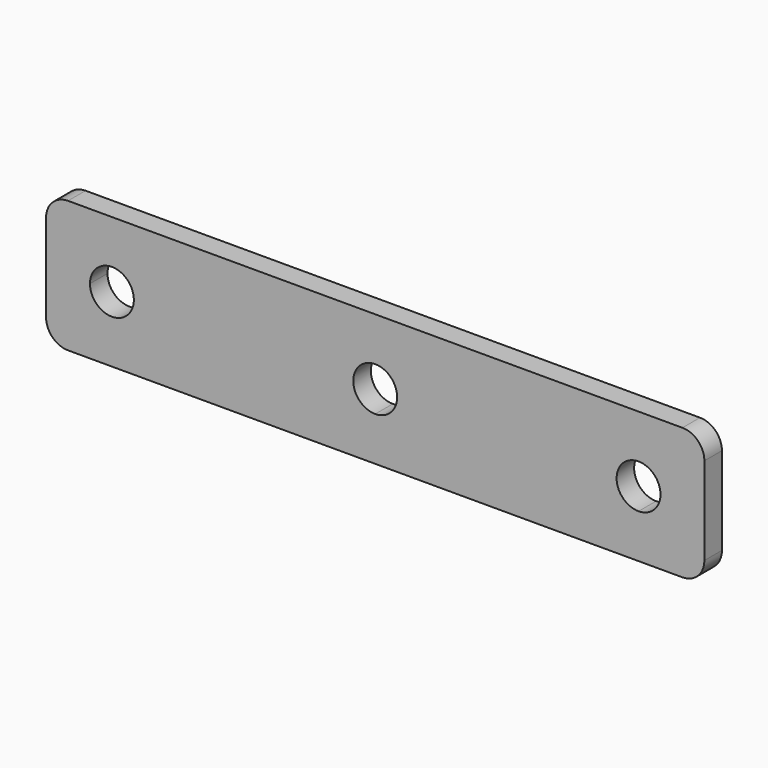
from build123d import *

# Parameters (mm, degrees)
F1_DEPTH = 3.175
F2_R     = 3.175


with BuildPart() as f1:
    # F0 (on Front) → F1 (new body)
    with BuildSketch(Plane.XZ):
        with BuildLine():
            Line((41.079769, -3.502041), (31.554769, -3.502041))
            Line((31.554769, -3.502041), (31.554769, -13.027041))
            Line((31.554769, -13.027041), (37.904769, -13.027041))
            ThreePointArc((37.904769, -13.027041), (38.834705, -10.781977), (41.079769, -9.852041))
            Line((41.079769, -9.852041), (41.079769, -3.502041))
        make_face()
        with BuildLine():
            Line((79.179769, -3.502041), (41.079769, -3.502041))
            Line((41.079769, -3.502041), (41.079769, -9.852041))
            ThreePointArc((41.079769, -9.852041), (43.324833, -10.781977), (44.254769, -13.027041))
            ThreePointArc((44.254769, -13.027041), (41.079769, -16.202041), (37.904769, -13.027041))
            Line((37.904769, -13.027041), (31.554769, -13.027041))
            Line((31.554769, -13.027041), (31.554769, -22.552041))
            Line((31.554769, -22.552041), (79.179769, -22.552041))
            Line((79.179769, -22.552041), (79.179769, -16.202041))
            ThreePointArc((79.179769, -16.202041), (76.004769, -13.027041), (79.179769, -9.852041))
            Line((79.179769, -9.852041), (79.179769, -3.502041))
        make_face()
        with BuildLine():
            Line((126.804769, -3.502041), (79.179769, -3.502041))
            Line((79.179769, -3.502041), (79.179769, -9.852041))
            ThreePointArc((79.179769, -9.852041), (81.424833, -10.781977), (82.354769, -13.027041))
            ThreePointArc((82.354769, -13.027041), (81.424833, -15.272105), (79.179769, -16.202041))
            Line((79.179769, -16.202041), (79.179769, -22.552041))
            Line((79.179769, -22.552041), (117.279769, -22.552041))
            Line((117.279769, -22.552041), (117.279769, -16.202041))
            ThreePointArc((117.279769, -16.202041), (115.034705, -10.781977), (120.454769, -13.027041))
            Line((120.454769, -13.027041), (126.804769, -13.027041))
            Line((126.804769, -13.027041), (126.804769, -3.502041))
        make_face()
        with BuildLine():
            Line((126.804769, -22.552041), (126.804769, -13.027041))
            Line((126.804769, -13.027041), (120.454769, -13.027041))
            ThreePointArc((120.454769, -13.027041), (119.524833, -15.272105), (117.279769, -16.202041))
            Line((117.279769, -16.202041), (117.279769, -22.552041))
            Line((117.279769, -22.552041), (126.804769, -22.552041))
        make_face()
    extrude(amount=F1_DEPTH)

    # F2
    f2_edges = [f1.edges().sort_by_distance(p)[0] for p in [
        (31.554769, -1.5875, -3.502041),
        (31.554769, -1.5875, -22.552041),
        (126.804769, -1.5875, -3.502041),
        (126.804769, -1.5875, -22.552041),
    ]]
    fillet(f2_edges, radius=F2_R)


solid = f1.part
